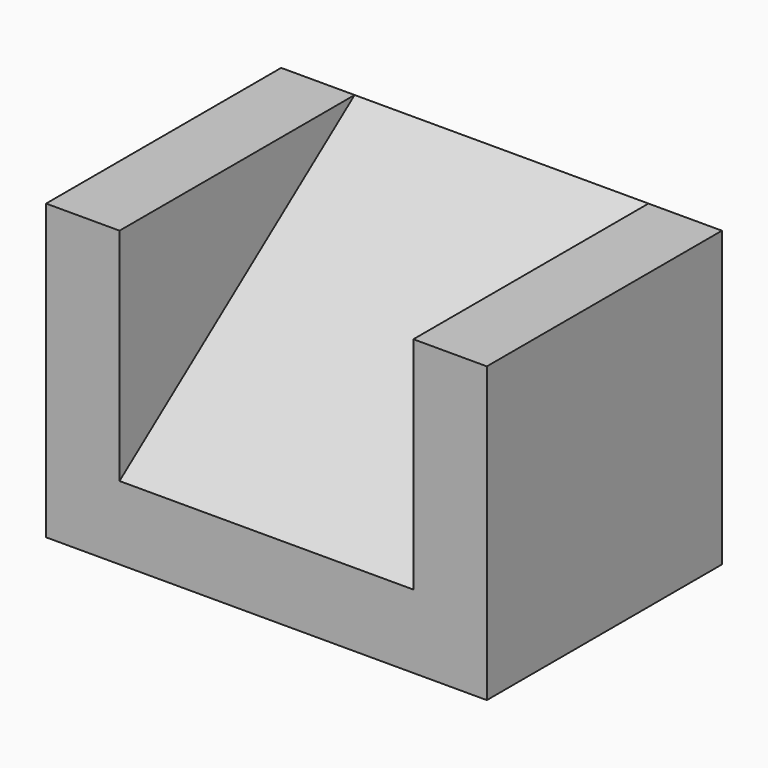
from build123d import *

# Parameters (mm, degrees)
F0_W     = 20
F0_H     = 20
F1_DEPTH = 15
F3_DEPTH = 10


with BuildPart() as f1:
    # F0 (on Right) → F1 (new body, symmetric)
    with BuildSketch(Plane.YZ):
        with Locations((-10, 10)):
            Rectangle(F0_W, F0_H)
    extrude(amount=F1_DEPTH, both=True)

    # F2 (on Right) → F3 (cut, symmetric)
    with BuildSketch(Plane.YZ):
        Polygon((-20, 5), (0, 20), (-20, 20), align=None)
    extrude(amount=F3_DEPTH, both=True, mode=Mode.SUBTRACT)


solid = f1.part
